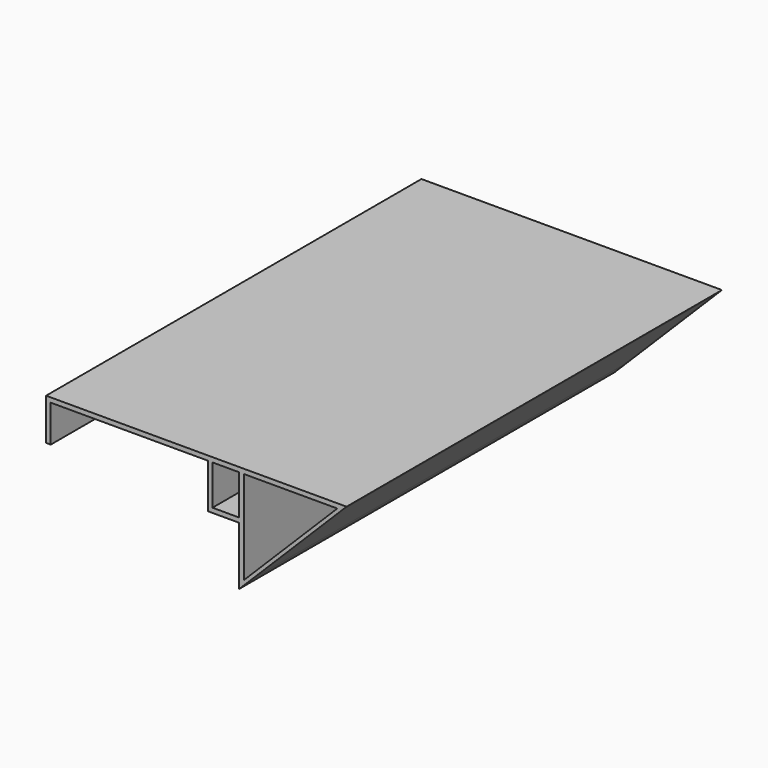
from build123d import *

# Parameters (mm, degrees)
F0_W     = 2
F0_H     = 17.25
F0_H_2   = 2
F0_W_2   = 11.543084
F1_DEPTH = 203


with BuildPart() as f1:
    # F0 (on Front) → F1 (new body)
    with BuildSketch(Plane.XZ):
        Polygon((-101.483401, 5.105811), (-101.483401, 21.105811), (-33.483401, 21.105811), (-31.483401, 21.105811), (-31.483401, 23.105811), (-103.483401, 23.105811), (-103.483401, 21.105811), (-103.483401, 5.105811), align=None)
        with Locations((-32.483401, 12.480811)):
            Rectangle(F0_W, F0_H)
        with Locations((-32.483401, 2.855811)):
            Rectangle(F0_W, F0_H_2)
        with Locations((-25.711859, 22.105811)):
            Rectangle(F0_W_2, F0_H_2)
        with Locations((-25.711859, 2.855811)):
            Rectangle(F0_W_2, F0_H_2)
        Polygon((-17.940317, 21.105811), (-19.940317, 21.105811), (-19.940317, 3.855811), (-19.940317, 1.855811), (-19.940317, -21.351104), (-17.940317, -19.351104), align=None)
        with Locations((-18.940317, 22.105811)):
            Rectangle(F0_W, F0_H_2)
        Polygon((-17.940317, 23.105811), (-17.940317, 21.105811), (22.516599, 21.105811), (24.516599, 23.105811), align=None)
        Polygon((22.516599, 21.105811), (-17.940317, -19.351104), (-19.940317, -21.351104), (-19.940317, -23.351104), (-14.518421, -17.929208), (24.516599, 21.105811), align=None)
        Polygon((24.516599, 23.105811), (22.516599, 21.105811), (24.516599, 21.105811), (26.516599, 23.105811), align=None)
    extrude(amount=F1_DEPTH)


solid = f1.part
